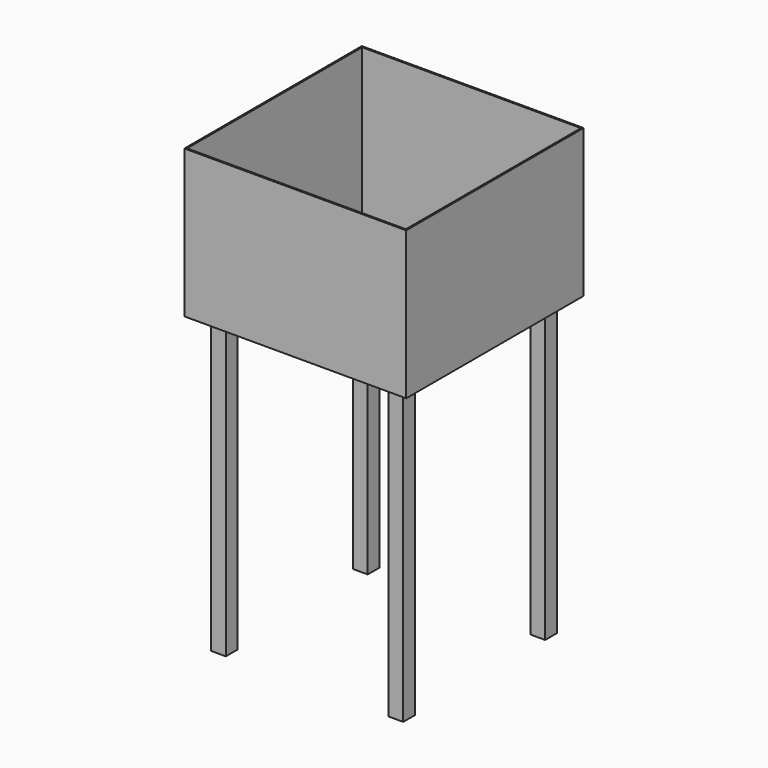
from build123d import *

# Parameters (mm, degrees)
F0_W     = 381
F0_H     = 381
F1_DEPTH = 254
F2_T     = -2.54
F3_W     = 25.4
F3_H     = 25.4
F4_DEPTH = 508


with BuildPart() as f1:
    # F0 (on Top) → F1 (new body)
    with BuildSketch(Plane.XY):
        with Locations((190.5, -190.5)):
            Rectangle(F0_W, F0_H)
    extrude(amount=F1_DEPTH)

    # F2
    f2_openings = [f1.faces().sort_by_distance(p)[0] for p in [
        (190.5, -190.5, 254),
    ]]
    offset(amount=F2_T, openings=f2_openings)

    # F3 (on face) → F4 (join)
    with BuildSketch(Plane(origin=(0, 0, 0), x_dir=(1, 0, 0), z_dir=(0, 0, -1))):
        with Locations((38.1, 342.9)):
            Rectangle(F3_W, F3_H)
        with Locations((342.9, 342.9)):
            Rectangle(F3_W, F3_H)
        with Locations((38.1, 38.1)):
            Rectangle(F3_W, F3_H)
        with Locations((342.9, 38.1)):
            Rectangle(F3_W, F3_H)
    extrude(amount=F4_DEPTH)


solid = f1.part
